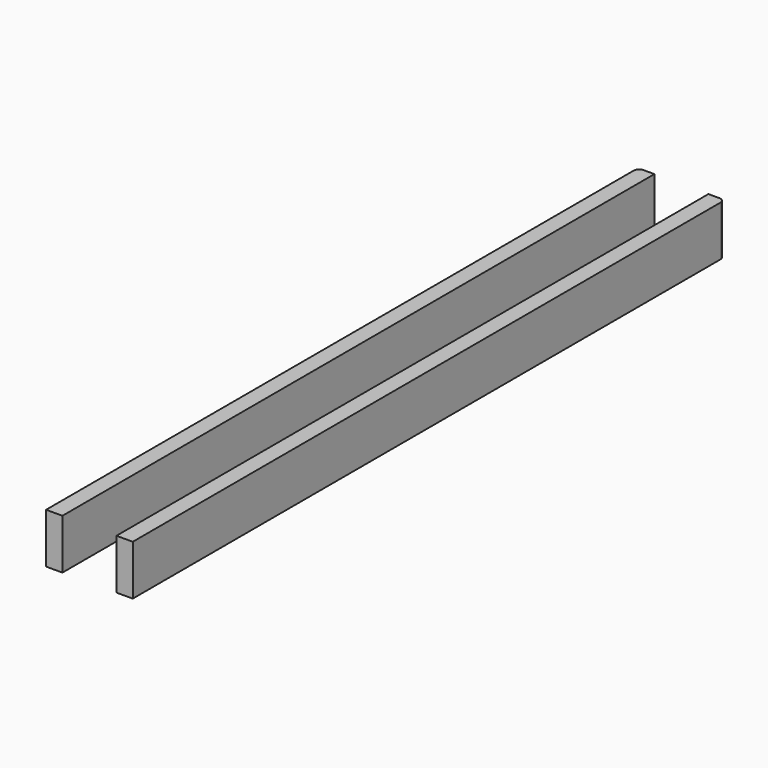
from build123d import *

# Parameters (mm, degrees)
F0_W     = 1.5
F0_H     = 68
F1_DEPTH = 4.6
F2_R     = 0.5


with BuildPart() as f1:
    # F0 (on Top) → F1 (new body)
    with BuildSketch(Plane.XY):
        with Locations((-2.011391, 0)):
            Rectangle(F0_W, F0_H)
        with Locations((4.454094, 0)):
            Rectangle(F0_W, F0_H)
    extrude(amount=F1_DEPTH)

    # F2
    f2_edges = [f1.edges().sort_by_distance(p)[0] for p in [
        (-2.761391, 34, 2.3),
        (5.204094, 34, 2.3),
    ]]
    fillet(f2_edges, radius=F2_R)


solid = f1.part
